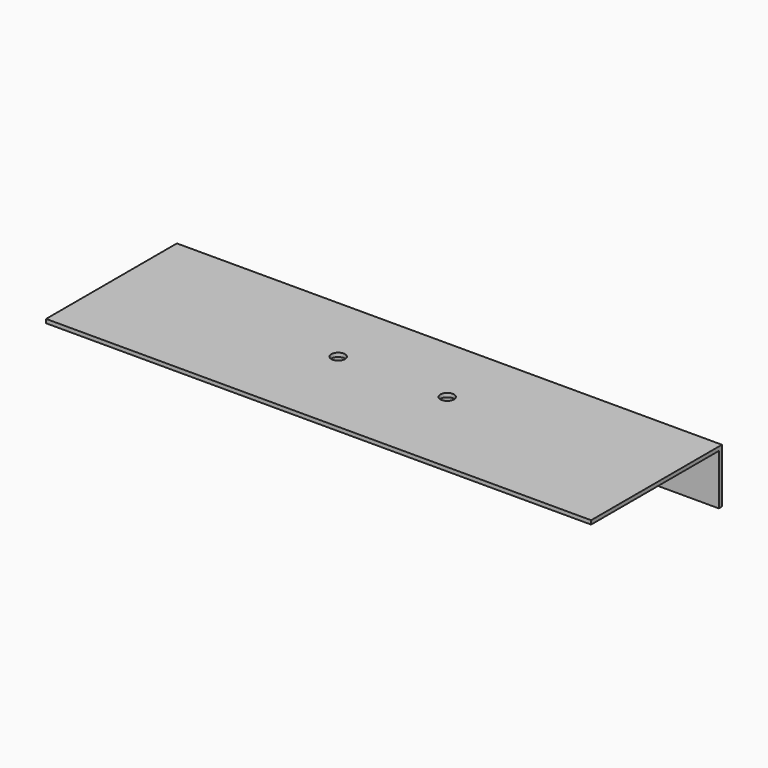
from build123d import *

# Parameters (mm, degrees)
F1_DEPTH      = 127
F1_DEPTH_BACK = 127
F2_R          = 3.175
F3_DEPTH      = 25.401
F5_D          = 7.8994
F5_DEPTH      = 12.7


with BuildPart() as f1:
    # F0 (on Right) → F1 (new body, two sides)
    with BuildSketch(Plane.YZ) as f1_sk:
        Polygon((-38.1, -0.9017), (36.2966, -0.9017), (36.2966, -24.4983), (38.1, -24.4983), (38.1, -0.9017), (38.1, 0.9017), (-38.1, 0.9017), align=None)
    extrude(amount=F1_DEPTH)
    extrude(f1_sk.sketch, amount=-F1_DEPTH_BACK)

    # F2 (on face) → F3 (cut, through all)
    with BuildSketch(Plane.XY.offset(0.9017)):
        with Locations((-25.4, 5.08)):
            Circle(F2_R)
        with Locations((25.4, 5.08)):
            Circle(F2_R)
    extrude(amount=-F3_DEPTH, mode=Mode.SUBTRACT)

    # F5
    with Locations(Plane(origin=(0, 38.1, 0), x_dir=(-1, 0, 0), z_dir=(0, 1, 0))):
        with Locations((-63.5381, -15.5321), (63.5381, -15.5321)):
            Hole(F5_D / 2, depth=F5_DEPTH)


solid = f1.part
